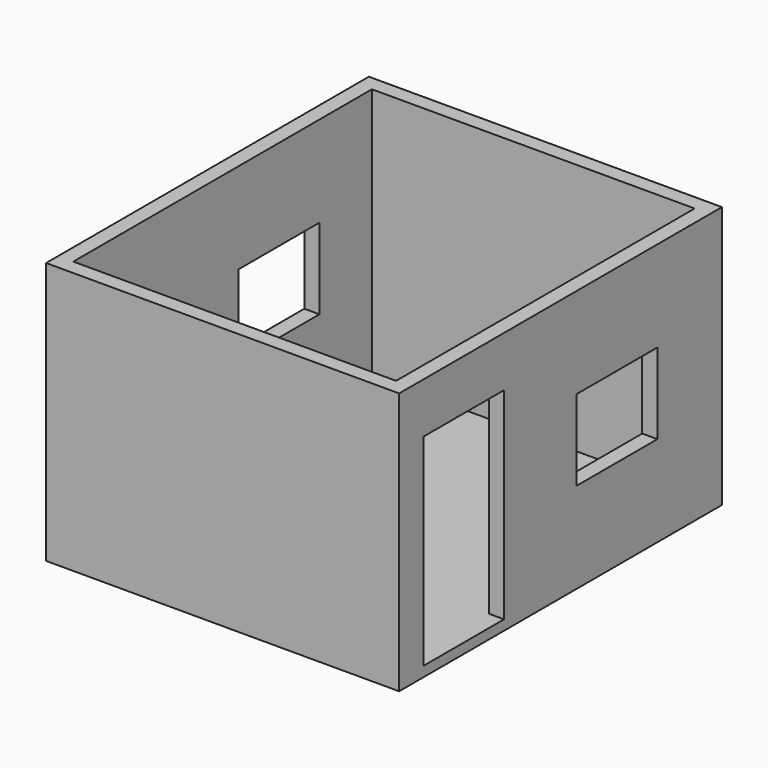
from build123d import *

# Parameters (mm, degrees)
F0_W     = 3500
F0_H     = 4000
F0_W_2   = 3200
F0_H_2   = 3700
F1_DEPTH = 2500
F2_W     = 1000
F2_H     = 2000
F3_DEPTH = 150
F4_W     = 1000
F4_H     = 800
F5_DEPTH = 3500.001
F6_W     = 3500
F6_H     = 4000
F7_DEPTH = 100


with BuildPart() as f1:
    # F0 (on Top) → F1 (new body)
    with BuildSketch(Plane.XY):
        Rectangle(F0_W, F0_H)
        Rectangle(F0_W_2, F0_H_2, mode=Mode.SUBTRACT)
    extrude(amount=F1_DEPTH)

    # F2 (on face) → F3 (cut, through all)
    with BuildSketch(Plane.YZ.offset(1750)):
        with Locations((-1200, 1000)):
            Rectangle(F2_W, F2_H)
    extrude(amount=-F3_DEPTH, mode=Mode.SUBTRACT)

    # F4 (on face) → F5 (cut, through all)
    with BuildSketch(Plane.YZ.offset(1750)):
        with Locations((700, 1200)):
            Rectangle(F4_W, F4_H)
    extrude(amount=-F5_DEPTH, mode=Mode.SUBTRACT)

    # F6 (on face) → F7 (join)
    with BuildSketch(Plane(origin=(0, 0, 0), x_dir=(1, 0, 0), z_dir=(0, 0, -1))):
        Rectangle(F6_W, F6_H)
    extrude(amount=F7_DEPTH)


solid = f1.part
